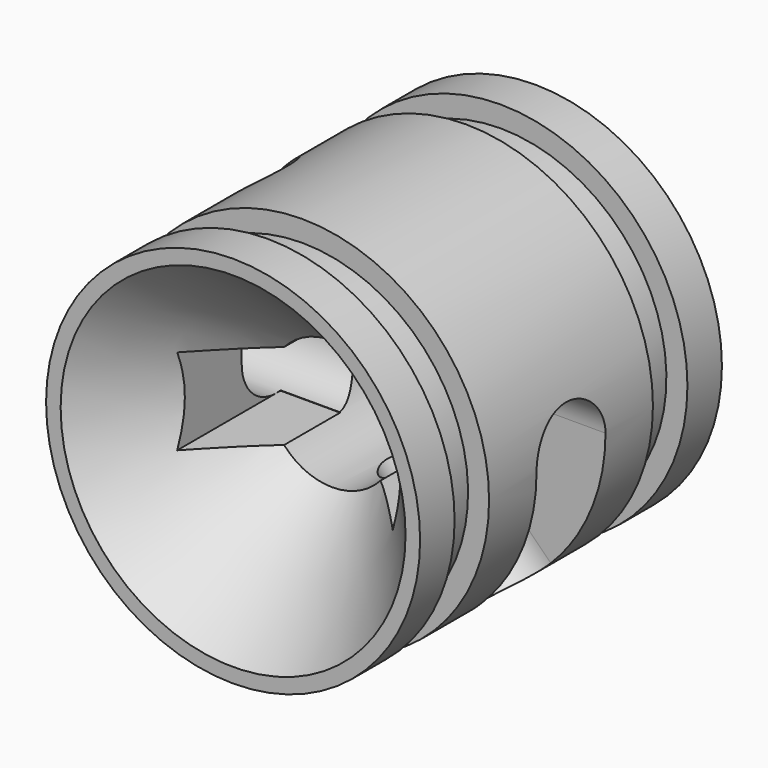
from build123d import *

# Parameters (mm, degrees)
F0_R           = 17.35
F0_R_2         = 16.35
F1_DEPTH       = 17.5
F2_W           = 4
F2_H           = 5
F5_D           = 12
F5_DEPTH       = 30
F5_CSINK_D     = 32
F5_CSINK_ANGLE = 82
F5_TIP         = 3.6051637142
F6_DEPTH       = 18
F7_R           = 4
F8_DEPTH       = 17.5
F10_R          = 4
F11_DEPTH      = 17.5
F13_DEPTH      = 4


with BuildPart() as f1:
    # F0 (on Front) → F1 (new body, symmetric)
    with BuildSketch(Plane.XZ):
        Circle(F0_R)
        Circle(F0_R_2, mode=Mode.SUBTRACT)
        Circle(F0_R_2)
    extrude(amount=F1_DEPTH, both=True)

    # F2 (on Right) → F3 (revolve, cut)
    with BuildSketch(Plane.YZ):
        with Locations((-11.5, 17.9)):
            Rectangle(F2_W, F2_H)
        with Locations((11.5, 17.9)):
            Rectangle(F2_W, F2_H)
    revolve(axis=Axis((0, 0, 0), (0, -1, 0)), mode=Mode.SUBTRACT)

    # F5
    with Locations(Plane.XZ.offset(17.5)):
        with Locations((0, 0)):
            CounterSinkHole(F5_D / 2, F5_CSINK_D / 2, depth=F5_DEPTH, counter_sink_angle=F5_CSINK_ANGLE)
            with Locations((0, 0, -(F5_DEPTH + F5_TIP / 2))):  # 118° drill point
                Cone(0, F5_D / 2, F5_TIP, mode=Mode.SUBTRACT)

    # F4 (on face) → F6 (cut)
    with BuildSketch(Plane.XZ.offset(17.5)):
        with BuildLine():
            ThreePointArc((-4.472135955, -4), (-6, 0), (-4.472135955, 4))
            Line((-4.472135955, 4), (-10, 4))
            Line((-10, 4), (-10, -4))
            Line((-10, -4), (-4.472135955, -4))
        make_face()
        with BuildLine():
            ThreePointArc((4.472135955, 4), (5.6050341538, 2.1409325386), (6, 0))
            ThreePointArc((6, 0), (5.6050341538, -2.1409325386), (4.472135955, -4))
            Line((4.472135955, -4), (10, -4))
            Line((10, -4), (10, 4))
            Line((10, 4), (4.472135955, 4))
        make_face()
    extrude(amount=-F6_DEPTH, mode=Mode.SUBTRACT)

    # F7 (on Right) → F8 (cut, symmetric)
    with BuildSketch(Plane.YZ):
        Circle(F7_R)
    extrude(amount=F8_DEPTH, both=True, mode=Mode.SUBTRACT)

    # F10 (on face) → F11 (cut, symmetric)
    with BuildSketch(Plane(origin=(0, 0, 0), x_dir=(0, 1, 0), z_dir=(0.7071067812, 0, -0.7071067812))):
        Circle(F10_R)
    extrude(amount=F11_DEPTH, both=True, mode=Mode.SUBTRACT)

    # F12 (on Front) → F13 (cut, symmetric)
    with BuildSketch(Plane.XZ):
        with BuildLine():
            Line((-17.35, 0), (0, 0))
            Line((0, 0), (-12.2683026536, 12.2683026536))
            ThreePointArc((-12.2683026536, 12.2683026536), (-13.6092339975, 10.7615635481), (-14.7662347124, 9.1093804629))
            ThreePointArc((-14.7662347124, 9.1093804629), (-16.6915648197, 4.7343599219), (-17.35, 0))
        make_face()
        with BuildLine():
            ThreePointArc((14.7662347124, -9.1093804629), (16.6915648197, -4.7343599219), (17.35, 0))
            Line((17.35, 0), (0, 0))
            Line((0, 0), (12.2683026536, -12.2683026536))
            ThreePointArc((12.2683026536, -12.2683026536), (13.6092339975, -10.7615635481), (14.7662347124, -9.1093804629))
        make_face()
    extrude(amount=F13_DEPTH, both=True, mode=Mode.SUBTRACT)


solid = f1.part
